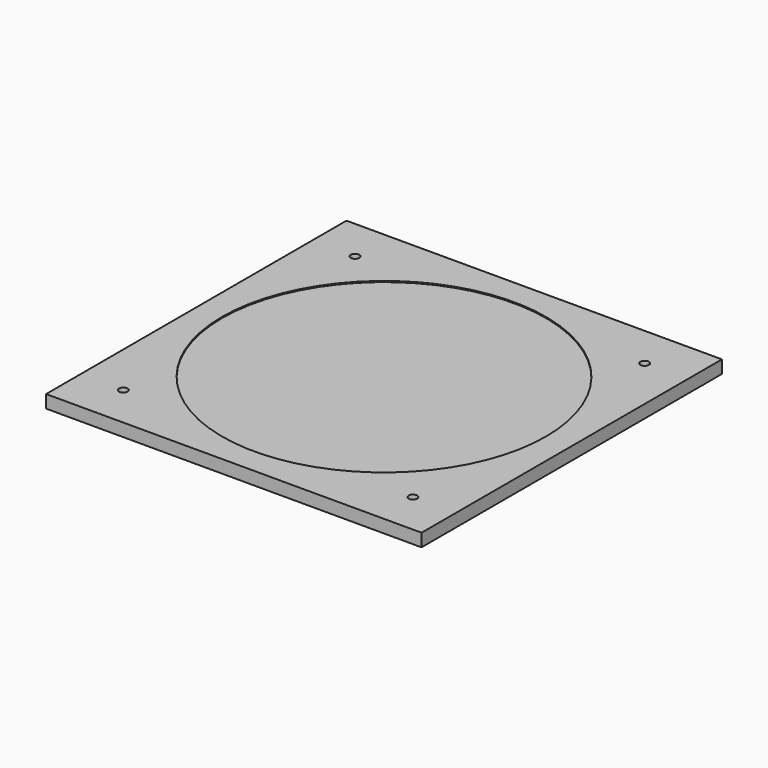
from build123d import *

# Parameters (mm, degrees)
F0_W     = 175
F0_H     = 175
F1_DEPTH = 6
F2_R     = 75.5
F3_DEPTH = 0.5
F4_R     = 2
F5_DEPTH = 6.001


with BuildPart() as f1:
    # F0 (on Top) → F1 (new body)
    with BuildSketch(Plane.XY):
        with Locations((87.5, 87.5)):
            Rectangle(F0_W, F0_H)
    extrude(amount=F1_DEPTH)

    # F2 (on face) → F3 (cut)
    with BuildSketch(Plane.XY.offset(6)):
        with Locations((87.5, 87.5)):
            Circle(F2_R)
    extrude(amount=-F3_DEPTH, mode=Mode.SUBTRACT)

    # F4 (on face) → F5 (cut, through all)
    with BuildSketch(Plane.XY.offset(6)):
        with Locations((20, 155)):
            Circle(F4_R)
        with Locations((155, 155)):
            Circle(F4_R)
        with Locations((155, 20)):
            Circle(F4_R)
        with Locations((20, 20)):
            Circle(F4_R)
    extrude(amount=-F5_DEPTH, mode=Mode.SUBTRACT)


solid = f1.part
